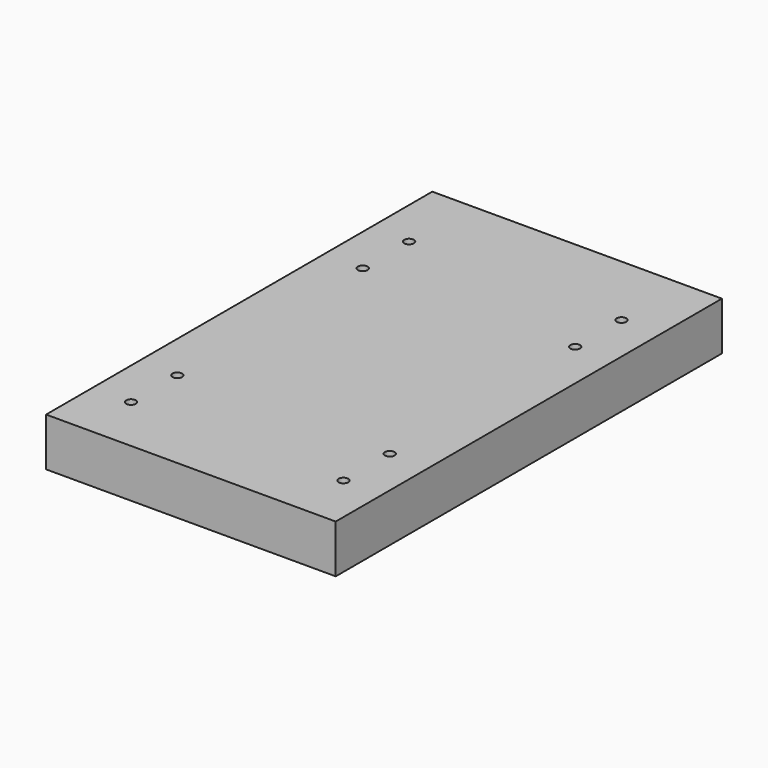
from build123d import *

# Parameters (mm, degrees)
F0_W     = 150
F0_H     = 250
F0_R     = 2.5
F1_DEPTH = 25


with BuildPart() as f1:
    # F0 (on Top) → F1 (new body)
    with BuildSketch(Plane.XY):
        Rectangle(F0_W, F0_H)
        with Locations((-55, -95)):
            Circle(F0_R, mode=Mode.SUBTRACT)
        with Locations((-55, -65)):
            Circle(F0_R, mode=Mode.SUBTRACT)
        with Locations((55, -95)):
            Circle(F0_R, mode=Mode.SUBTRACT)
        with Locations((55, -65)):
            Circle(F0_R, mode=Mode.SUBTRACT)
        with Locations((-55, 55)):
            Circle(F0_R, mode=Mode.SUBTRACT)
        with Locations((-55, 85)):
            Circle(F0_R, mode=Mode.SUBTRACT)
        with Locations((55, 55)):
            Circle(F0_R, mode=Mode.SUBTRACT)
        with Locations((55, 85)):
            Circle(F0_R, mode=Mode.SUBTRACT)
    extrude(amount=F1_DEPTH)


solid = f1.part
